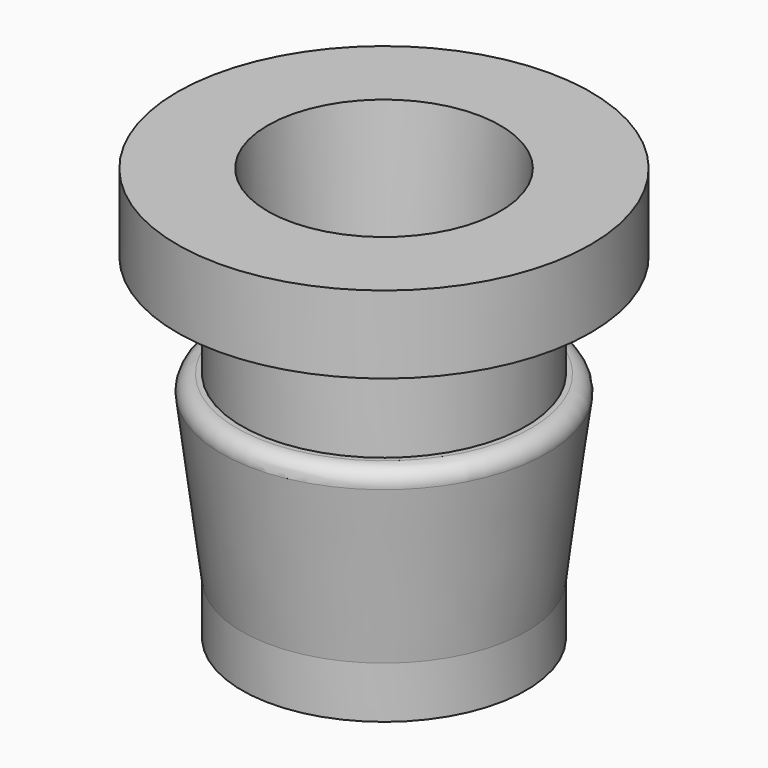
from build123d import *


with BuildPart() as part:
    # Sketch → Revolution (revolve)
    with BuildSketch(Plane.XZ):
        with BuildLine():
            Line((-4.5, 16), (-8, 16))
            Line((-8, 16), (-8, 13))
            Line((-8, 13), (-5.5, 13))
            Line((-5.5, 13), (-5.5, 9))
            Line((-5.5, 9), (-5.7, 9))
            ThreePointArc((-5.7, 9), (-6.149951, 8.796918), (-6.295312, 8.325146))
            Line((-6.295312, 8.325146), (-5.5, 2))
            Line((-5.5, 2), (-5.5, 0))
            Line((-5.5, 0), (-3.5, 0))
            Line((-3.5, 0), (-4.5, 16))
        make_face()
    revolve(axis=Axis((0, 0, 0), (0, 0, 1)))


solid = part.part
